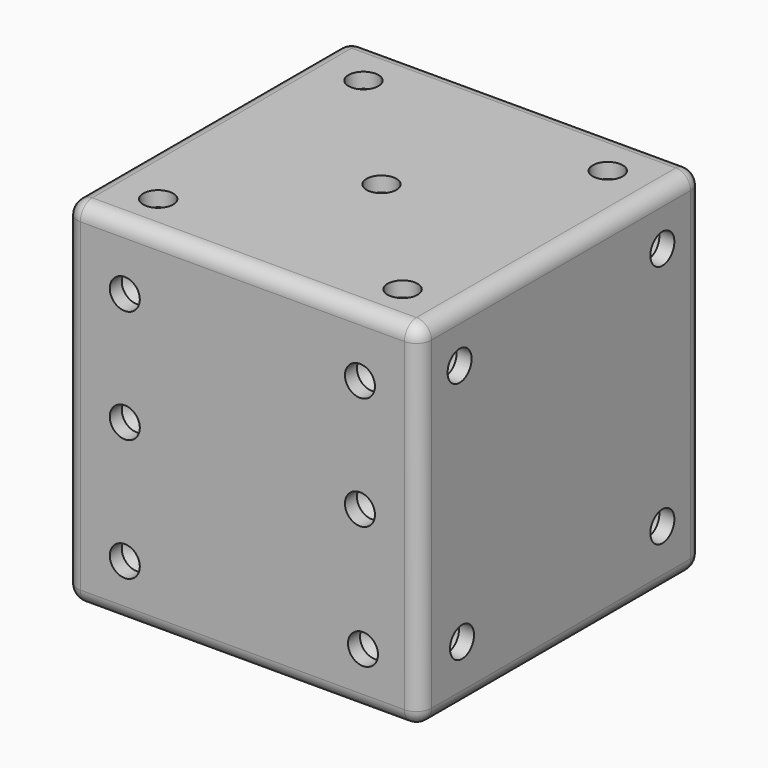
from build123d import *

# Parameters (mm, degrees)
F0_W      = 29.972
F0_H      = 29.972
F1_DEPTH  = 29.972
F3_D      = 2.54
F3_DEPTH  = 1.27
F3_TIP    = 0.7630929862
F5_D      = 2.54
F5_DEPTH  = 1.27
F5_TIP    = 0.7630929862
F7_D      = 2.54
F7_DEPTH  = 1.27
F7_TIP    = 0.7630929862
F9_D      = 2.54
F9_DEPTH  = 1.27
F9_TIP    = 0.7630929862
F11_D     = 2.54
F11_DEPTH = 1.27
F11_TIP   = 0.7630929862
F13_D     = 2.54
F13_DEPTH = 1.27
F13_TIP   = 0.7630929862
F14_R     = 1.27


with BuildPart() as f1:
    # F0 (on Front) → F1 (new body)
    with BuildSketch(Plane.XZ):
        Rectangle(F0_W, F0_H)
    extrude(amount=F1_DEPTH)

    # F3
    with Locations(Plane.XZ.offset(29.972)):
        with Locations((-9.9527798593, 9.5650078729), (-9.9527798593, 0), (-9.9527798593, -10.3405490518), (10.2112926543, -10.3405490518), (9.9527807906, 0), (9.9527807906, 9.5650078729)):
            Hole(F3_D / 2, depth=F3_DEPTH)
            with Locations((0, 0, -(F3_DEPTH + F3_TIP / 2))):  # 118° drill point
                Cone(0, F3_D / 2, F3_TIP, mode=Mode.SUBTRACT)

    # F5
    with Locations(Plane(origin=(0, 0, 0), x_dir=(-1, 0, 0), z_dir=(0, 1, 0))):
        with Locations((0, 0)):
            Hole(F5_D / 2, depth=F5_DEPTH)
            with Locations((0, 0, -(F5_DEPTH + F5_TIP / 2))):  # 118° drill point
                Cone(0, F5_D / 2, F5_TIP, mode=Mode.SUBTRACT)

    # F7
    with Locations(Plane.YZ.offset(14.986)):
        with Locations((-25.7221162319, 10.5990627781), (-4.2654769495, 10.5990627781), (-4.2654769495, -10.0820353255), (-25.4636034369, -10.0820353255)):
            Hole(F7_D / 2, depth=F7_DEPTH)
            with Locations((0, 0, -(F7_DEPTH + F7_TIP / 2))):  # 118° drill point
                Cone(0, F7_D / 2, F7_TIP, mode=Mode.SUBTRACT)

    # F9
    with Locations(Plane(origin=(-14.986, 0, 0), x_dir=(0, -1, 0), z_dir=(-1, 0, 0))):
        with Locations((24.695025757, 10.2938851342), (15.2865629643, 0), (5.493666511, -11.0425166786)):
            Hole(F9_D / 2, depth=F9_DEPTH)
            with Locations((0, 0, -(F9_DEPTH + F9_TIP / 2))):  # 118° drill point
                Cone(0, F9_D / 2, F9_TIP, mode=Mode.SUBTRACT)

    # F11
    with Locations(Plane(origin=(0, 0, -14.986), x_dir=(1, 0, 0), z_dir=(0, 0, -1))):
        with Locations((10.4698063806, 25.5928598344), (-10.9868338332, 4.1362200864)):
            Hole(F11_D / 2, depth=F11_DEPTH)
            with Locations((0, 0, -(F11_DEPTH + F11_TIP / 2))):  # 118° drill point
                Cone(0, F11_D / 2, F11_TIP, mode=Mode.SUBTRACT)

    # F13
    with Locations(Plane.XY.offset(14.986)):
        with Locations((-10.211291723, -4.394733347), (0, -15.2523107827), (10.4698063806, -4.394733347), (10.4698063806, -26.1098891497), (-10.211291723, -26.1098891497)):
            Hole(F13_D / 2, depth=F13_DEPTH)
            with Locations((0, 0, -(F13_DEPTH + F13_TIP / 2))):  # 118° drill point
                Cone(0, F13_D / 2, F13_TIP, mode=Mode.SUBTRACT)

    # F14
    f14_edges = [f1.edges().sort_by_distance(p)[0] for p in [
        (0, 0, 14.986),
        (14.986, 0, 0),
        (0, 0, -14.986),
        (-14.986, 0, 0),
        (-14.986, -14.986, 14.986),
        (14.986, -14.986, 14.986),
        (0, -29.972, 14.986),
        (14.986, -29.972, 0),
        (14.986, -14.986, -14.986),
        (0, -29.972, -14.986),
        (-14.986, -29.972, 0),
        (-14.986, -14.986, -14.986),
    ]]
    fillet(f14_edges, radius=F14_R)


solid = f1.part
